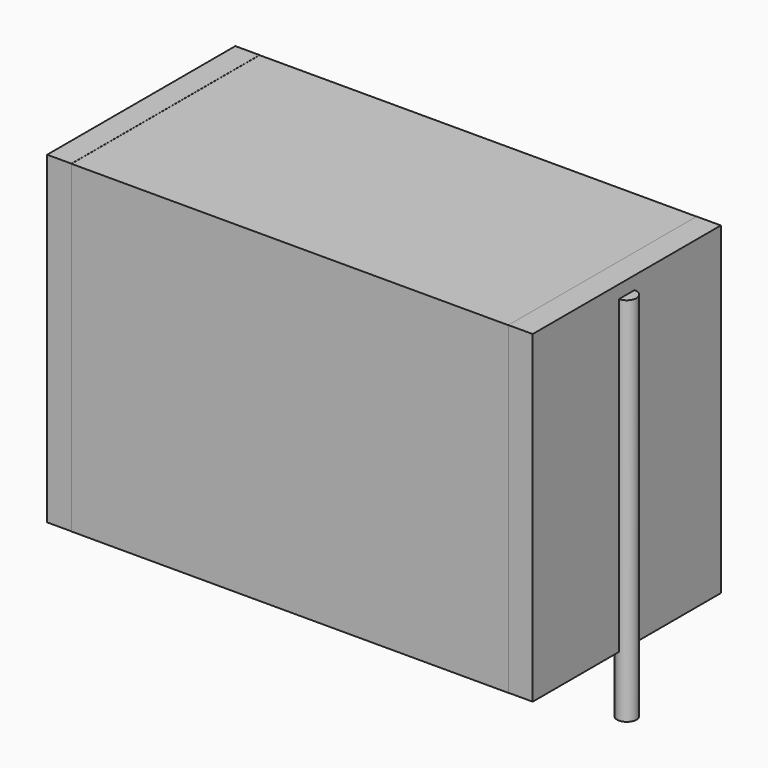
from build123d import *

# Parameters (mm, degrees)
SKETCH_W          = 20.25
SKETCH_H          = 10.9
PAD_DEPTH         = 15
SKETCH001_R       = 0.45
PAD001_DEPTH      = 14
PAD001_DEPTH_BACK = 3.2
SKETCH002_W       = 1.125
SKETCH002_H       = 10.9
PAD002_DEPTH      = 15


with BuildPart() as pad:
    # Sketch → Pad (new body)
    with BuildSketch(Plane.XY.offset(0.1)):
        with Locations((11.25, 0)):
            Rectangle(SKETCH_W, SKETCH_H)
    extrude(amount=PAD_DEPTH)


with BuildPart() as pad001:
    # Sketch001 → Pad001 (new body, two sides)
    with BuildSketch(Plane.XY.offset(0.5)) as pad001_sk:
        Circle(SKETCH001_R)
        with Locations((22.5, 0)):
            Circle(SKETCH001_R)
    extrude(amount=PAD001_DEPTH)
    extrude(pad001_sk.sketch, amount=-PAD001_DEPTH_BACK)


with BuildPart() as pad002:
    # Sketch002 → Pad002 (new body)
    with BuildSketch(Plane.XY.offset(0.105)):
        with Locations((0.5625, 0)):
            Rectangle(SKETCH002_W, SKETCH002_H)
        with Locations((21.9375, 0)):
            Rectangle(SKETCH002_W, SKETCH002_H)
    extrude(amount=PAD002_DEPTH)


solid = Compound([pad.part, pad001.part, pad002.part])
